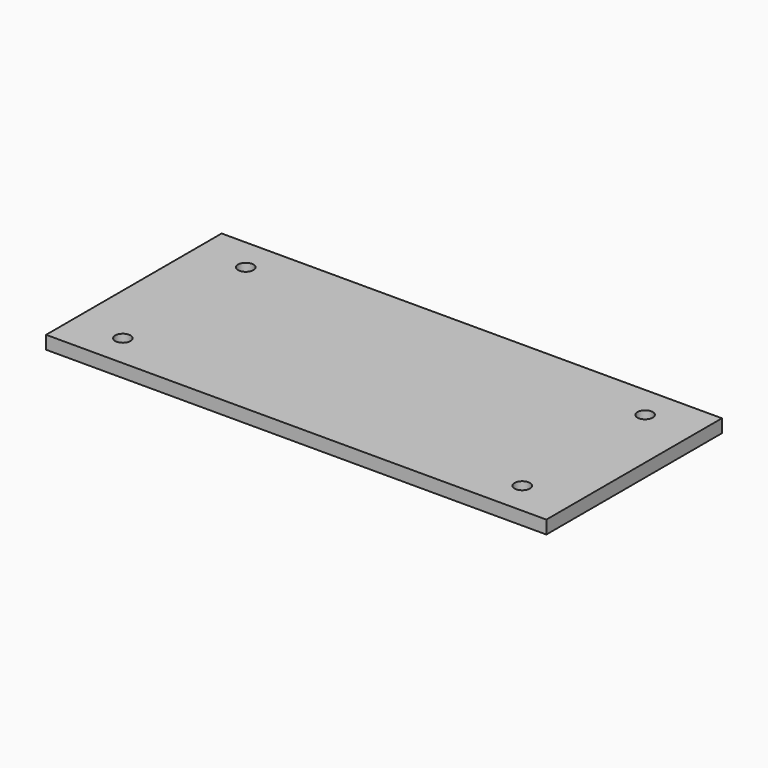
from build123d import *

# Parameters (mm, degrees)
SKETCH_W  = 114
SKETCH_H  = 50
SKETCH_R  = 1.75
PAD_DEPTH = 3


with BuildPart() as part:
    # Sketch → Pad (new body)
    with BuildSketch(Plane.XY):
        Rectangle(SKETCH_W, SKETCH_H)
        with Locations((-45.5, 17.5)):
            Circle(SKETCH_R, mode=Mode.SUBTRACT)
        with Locations((-45.5, -17.5)):
            Circle(SKETCH_R, mode=Mode.SUBTRACT)
        with Locations((45.5, -17.5)):
            Circle(SKETCH_R, mode=Mode.SUBTRACT)
        with Locations((45.5, 17.5)):
            Circle(SKETCH_R, mode=Mode.SUBTRACT)
    extrude(amount=PAD_DEPTH)


solid = part.part
